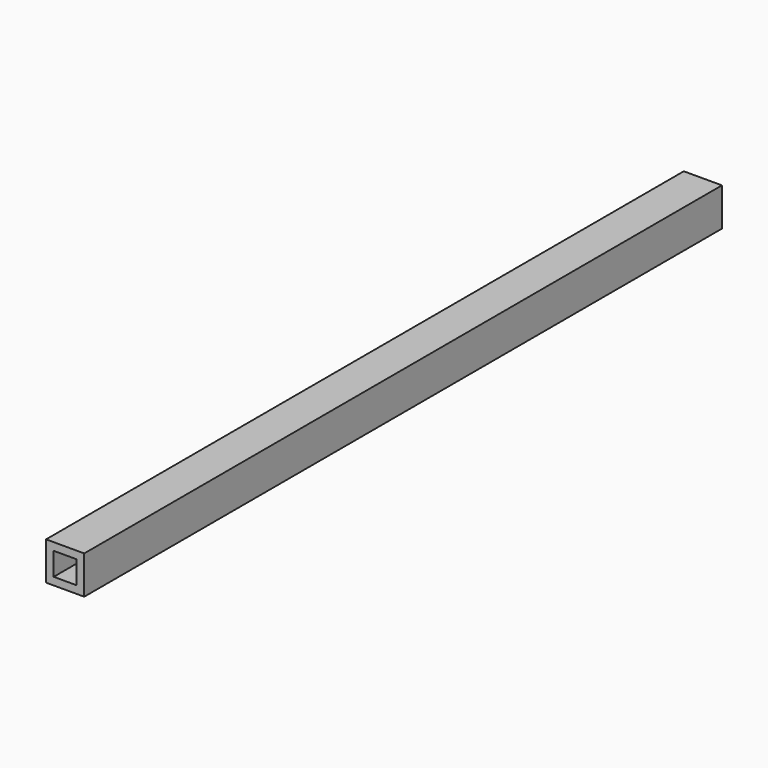
from build123d import *

# Parameters (mm, degrees)
F0_W     = 7.62
F0_H     = 7.62
F1_DEPTH = 265.43


with BuildPart() as f1:
    # F0 (on Front) → F1 (new body)
    with BuildSketch(Plane.XZ):
        Polygon((-12.7, 0), (0, 0), (0, 12.7), (-10.16, 12.7), (-12.7, 12.7), align=None)
        with Locations((-6.35, 6.35)):
            Rectangle(F0_W, F0_H, mode=Mode.SUBTRACT)
    extrude(amount=F1_DEPTH)


solid = f1.part
